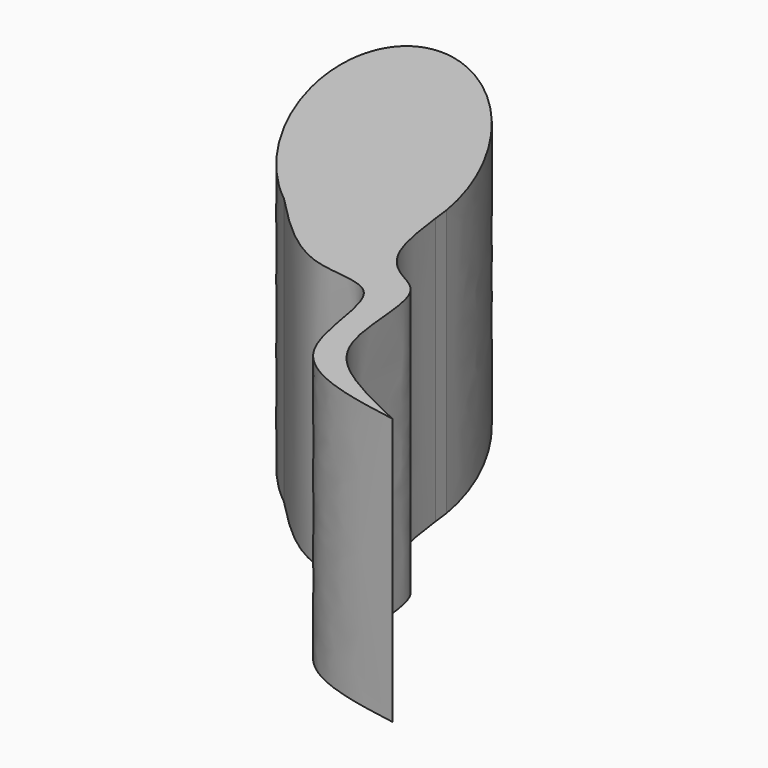
from build123d import *

# Parameters (mm, degrees)
F1_DEPTH = 10.16


with BuildPart() as f1:
    # F0 (on Top) → F1 (new body)
    with BuildSketch(Plane.XY):
        with BuildLine():
            add(Edge.make_bspline(
                [(-37.8630098161, 22.1358455967), (-37.7520751064, 21.2330961833), (-37.5066395246, 19.6619350065), (-36.4881157119, 18.6414345738), (-35.0978625252, 18.1260864107), (-35.1664991119, 14.8684744869), (-34.1351550905, 12.84277192), (-32.0001625336, 11.8316603866), (-30.8006238192, 11.2635651603)],
                knots=[0.0346661114, 0.0346661114, 0.0346661114, 0.0346661114, 0.1903043763, 0.3200536239, 0.4415827588, 0.6294028324, 0.7917822096, 1, 1, 1, 1], degree=3))
            add(Edge.make_bspline(
                [(-37.9350142154, 22.7435956475), (-37.9112910755, 22.5402710112), (-37.8877188747, 22.3369196177), (-37.8630098161, 22.1358455967)],
                knots=[0, 0, 0, 0, 0.0346661114, 0.0346661114, 0.0346661114, 0.0346661114], degree=3))
            add(Edge.make_bspline(
                [(-37.9350142154, 22.7435956475), (-39.690577574, 33.5686982344), (-45.2655116723, 30.3986787814), (-50.8404457706, 27.2286593283), (-42.185526455, 20.3266690531)],
                knots=[0.8945887025, 0.8945887025, 0.8945887025, 3.1325783827, 3.1325783827, 5.3705680628, 5.3705680628, 5.3705680628], degree=2, weights=[1, 0.4365869709, 1, 0.4365869709, 1]))
            add(Edge.make_bspline(
                [(-42.185526455, 20.3266690531), (-41.1063042683, 19.2185393417), (-39.2153077229, 17.2666497296), (-35.7993788568, 17.8617800122), (-36.2475843736, 12.200608651), (-32.6750971736, 11.5860949333), (-30.8006238192, 11.2635651603)],
                knots=[0, 0, 0, 0, 0.2616298784, 0.4595051913, 0.716395219, 1, 1, 1, 1], degree=3))
        make_face()
    extrude(amount=-F1_DEPTH)


solid = f1.part
